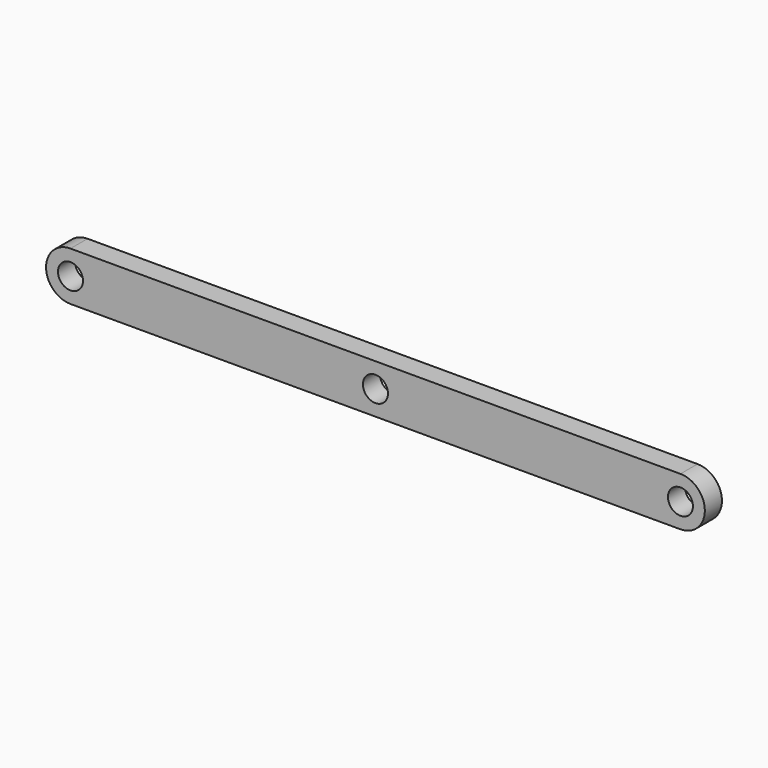
from build123d import *

# Parameters (mm, degrees)
F0_R     = 2.05
F1_DEPTH = 1.75


with BuildPart() as f1:
    # F0 (on Front) → F1 (new body, symmetric)
    with BuildSketch(Plane.XZ):
        with BuildLine():
            Line((102.5, 8), (2.5, 8))
            ThreePointArc((2.5, 8), (-1.5, 4), (2.5, 0))
            Line((2.5, 0), (102.5, 0))
            ThreePointArc((102.5, 0), (106.5, 4), (102.5, 8))
        make_face()
        with Locations((2.5, 4)):
            Circle(F0_R, mode=Mode.SUBTRACT)
        with Locations((52.5, 4)):
            Circle(F0_R, mode=Mode.SUBTRACT)
        with Locations((102.5, 4)):
            Circle(F0_R, mode=Mode.SUBTRACT)
    extrude(amount=F1_DEPTH, both=True)


solid = f1.part
